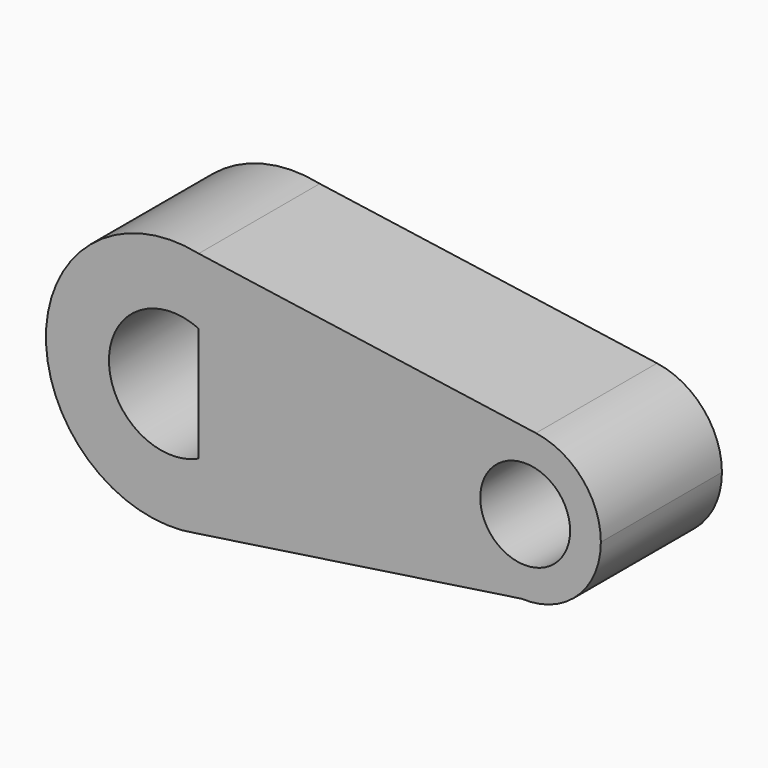
from build123d import *

# Parameters (mm, degrees)
F0_R     = 8.907425
F1_DEPTH = 30
F2_DEPTH = 30


with BuildPart() as f1:
    # F0 (on Front) → F1 (new body)
    with BuildSketch(Plane.XZ):
        with BuildLine():
            ThreePointArc((4.778965, -24.538979), (19.293446, -15.89852), (25, 0))
            ThreePointArc((25, 0), (19.452619, 15.703364), (5.27235, 24.437723))
            ThreePointArc((5.27235, 24.437723), (-24.998732, 0.251834), (4.778965, -24.538979))
        make_face()
        with BuildLine():
            ThreePointArc((5.27235, 11.345945), (10.547302, 6.729233), (12.511121, 0))
            ThreePointArc((12.511121, 0), (10.547302, -6.729233), (5.27235, -11.345945))
            ThreePointArc((5.27235, -11.345945), (-12.511121, 0), (5.27235, 11.345945))
        make_face(mode=Mode.SUBTRACT)
        with BuildLine():
            ThreePointArc((5.27235, 24.437723), (19.452619, 15.703364), (25, 0))
            ThreePointArc((25, 0), (19.293446, -15.89852), (4.778965, -24.538979))
            Line((4.778965, -24.538979), (69.271411, -14.982295))
            ThreePointArc((69.271411, -14.982295), (55.068389, 1.430734), (72.129728, 14.848039))
            Line((72.129728, 14.848039), (5.27235, 24.437723))
        make_face()
        with BuildLine():
            ThreePointArc((85, 0), (81.334591, 9.824818), (72.129728, 14.848039))
            ThreePointArc((72.129728, 14.848039), (55.068389, 1.430734), (69.271411, -14.982295))
            ThreePointArc((69.271411, -14.982295), (80.3458, -10.861143), (85, 0))
        make_face()
        with Locations((70, 0)):
            Circle(F0_R, mode=Mode.SUBTRACT)
    extrude(amount=F1_DEPTH)

    # F0 (on Front) → F2 (join)
    with BuildSketch(Plane.XZ):
        with BuildLine():
            ThreePointArc((5.27235, -11.345945), (10.547302, -6.729233), (12.511121, 0))
            ThreePointArc((12.511121, 0), (10.547302, 6.729233), (5.27235, 11.345945))
            Line((5.27235, 11.345945), (5.27235, -11.345945))
        make_face()
    extrude(amount=F2_DEPTH)


solid = f1.part
